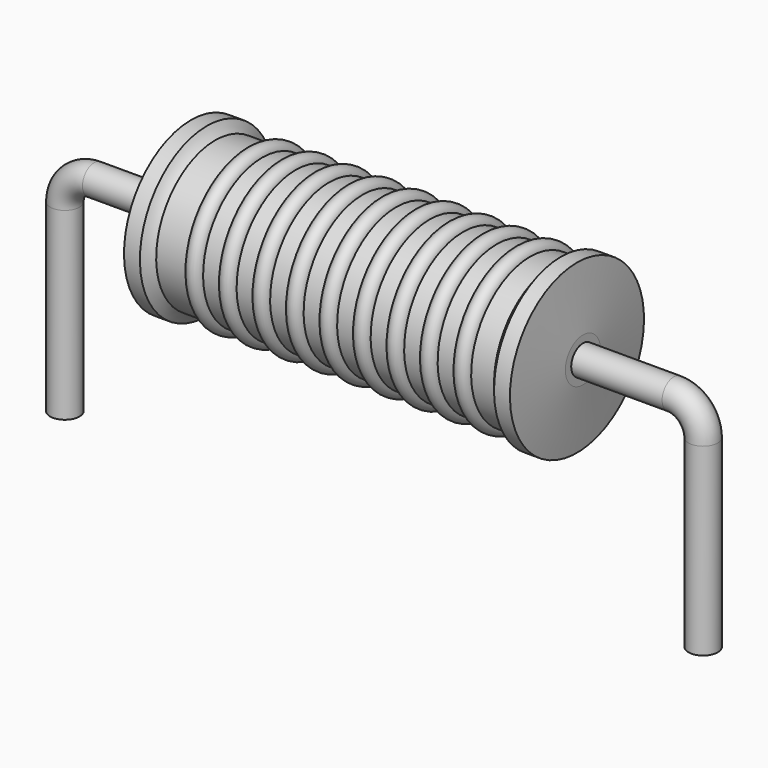
from build123d import *

# Parameters (mm, degrees)
SKETCH_R = 0.35


with BuildPart() as revolution:
    # Sketch002 → Revolution (revolve)
    with BuildSketch(Plane.XZ):
        with BuildLine():
            Line((3.0125, 4.1), (3.3925, 4.1))
            ThreePointArc((3.3925, 4.1), (3.479345, 3.971117), (3.5905, 3.8625))
            Line((3.5905, 3.8625), (11.6575, 3.8625))
            ThreePointArc((11.6575, 3.8625), (11.764738, 3.971459), (11.8475, 4.1))
            Line((11.8475, 4.1), (12.2275, 4.1))
            ThreePointArc((12.37, 2.625), (12.299959, 3.362617), (12.2275, 4.1))
            Line((12.37, 2.1), (12.37, 2.625))
            Line((2.87, 2.1), (12.37, 2.1))
            Line((2.87, 2.1), (2.87, 2.625))
            ThreePointArc((3.0125, 4.1), (2.940041, 3.362617), (2.87, 2.625))
        make_face()
    revolve(axis=Axis((2.87, 0, 2.1), (1, 0, 0)))


with BuildPart() as sweep_body:
    # Sweep: sweep along a path in Sketch001
    with BuildLine(Plane.XZ) as sweep_path:
        Line((0, -3), (0, 1.4))
        ThreePointArc((0, 1.4), (0.205022, 1.894971), (0.69999, 2.1))
        Line((0.69999, 2.1), (14.54, 2.1))
        ThreePointArc((14.54, 2.1), (15.034975, 1.894975), (15.24, 1.4))
        Line((15.24, 1.4), (15.24, -3))
    # Sketch → Sweep (sweep)
    with BuildSketch(Plane.XY.offset(-2)):
        Circle(SKETCH_R)
    sweep(path=sweep_path.line)


with BuildPart() as revolution001:
    # Sketch003 → Revolution001 (revolve)
    with BuildSketch(Plane.XZ):
        with BuildLine():
            ThreePointArc((4.715, 3.8245), (4.515, 4.0245), (4.315, 3.8245))
            Line((3.915, 3.8245), (4.315, 3.8245))
            Line((3.915, 3.8245), (3.915, 3.4245))
            Line((3.915, 3.4245), (11.515, 3.4245))
            Line((11.515, 3.4245), (11.515, 3.8245))
            Line((11.115, 3.8245), (11.515, 3.8245))
            ThreePointArc((11.115, 3.8245), (10.915, 4.0245), (10.715, 3.8245))
            Line((10.315, 3.8245), (10.715, 3.8245))
            ThreePointArc((10.315, 3.8245), (10.115, 4.0245), (9.915, 3.8245))
            Line((9.515, 3.8245), (9.915, 3.8245))
            ThreePointArc((9.515, 3.8245), (9.315, 4.0245), (9.115, 3.8245))
            Line((8.715, 3.8245), (9.115, 3.8245))
            ThreePointArc((8.715, 3.8245), (8.515, 4.0245), (8.315, 3.8245))
            Line((7.915, 3.8245), (8.315, 3.8245))
            ThreePointArc((7.915, 3.8245), (7.715, 4.0245), (7.515, 3.8245))
            Line((7.115, 3.8245), (7.515, 3.8245))
            ThreePointArc((7.115, 3.8245), (6.915, 4.0245), (6.715, 3.8245))
            Line((6.315, 3.8245), (6.715, 3.8245))
            ThreePointArc((6.315, 3.8245), (6.115, 4.0245), (5.915, 3.8245))
            Line((5.515, 3.8245), (5.915, 3.8245))
            ThreePointArc((5.515, 3.8245), (5.315, 4.0245), (5.115, 3.8245))
            Line((4.715, 3.8245), (5.115, 3.8245))
        make_face()
    revolve(axis=Axis((3.1075, 0, 2.1), (1, 0, 0)))


solid = Compound([revolution.part, sweep_body.part, revolution001.part])
